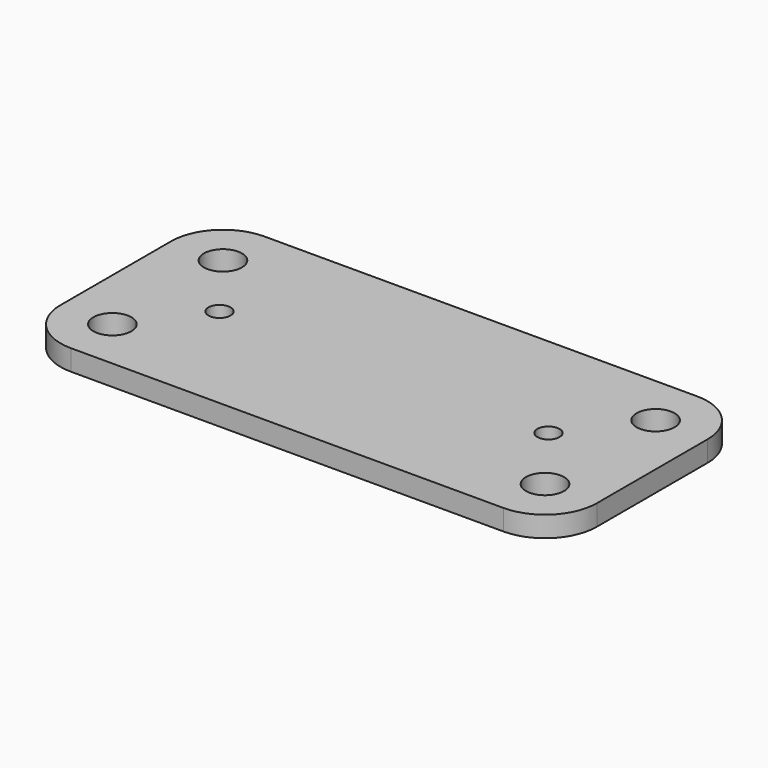
from build123d import *

# Parameters (mm, degrees)
F1_DEPTH = 3
F2_D     = 5.5
F3_D     = 3.2


with BuildPart() as f1:
    # F0 (on Top) → F1 (new body)
    with BuildSketch(Plane.XY):
        with BuildLine():
            Line((41.6422729686, 16.8069582433), (-20.9577269852, 16.8069582433))
            ThreePointArc((-20.9577269852, 16.8069582433), (-15.6544261263, 14.6102591021), (-13.4577269852, 9.3069582433))
            ThreePointArc((-13.4577269852, 9.3069582433), (-20.9577269852, 1.8069582433), (-28.4577269852, 9.3069582433))
            Line((-28.4577269852, 9.3069582433), (-28.4577269852, -10.6930417567))
            ThreePointArc((-28.4577269852, -10.6930417567), (-20.9577269852, -3.1930417567), (-13.4577269852, -10.6930417567))
            ThreePointArc((-13.4577269852, -10.6930417567), (-15.6544261263, -15.9963426156), (-20.9577269852, -18.1930417567))
            Line((-20.9577269852, -18.1930417567), (41.6422730148, -18.1930417567))
            ThreePointArc((41.6422730148, -18.1930417567), (36.3389721559, -5.3897408979), (49.1422730148, -10.6930417567))
            Line((49.1422730148, -10.6930417567), (49.1422730148, 9.3069582433))
            ThreePointArc((49.1422730148, 9.3069582433), (36.3389721722, 4.003657368), (41.6422729686, 16.8069582433))
        make_face()
        with BuildLine():
            ThreePointArc((49.1422730148, 9.3069582433), (46.9455738573, 14.6102591185), (41.6422729686, 16.8069582433))
            ThreePointArc((41.6422729686, 16.8069582433), (36.3389721722, 4.003657368), (49.1422730148, 9.3069582433))
        make_face()
        with BuildLine():
            ThreePointArc((-13.4577269852, 9.3069582433), (-15.6544261263, 14.6102591021), (-20.9577269852, 16.8069582433))
            ThreePointArc((-20.9577269852, 16.8069582433), (-26.2610278441, 14.6102591022), (-28.4577269852, 9.3069582433))
            ThreePointArc((-28.4577269852, 9.3069582433), (-20.9577269852, 1.8069582433), (-13.4577269852, 9.3069582433))
        make_face()
        with BuildLine():
            ThreePointArc((-13.4577269852, -10.6930417567), (-20.9577269852, -3.1930417567), (-28.4577269852, -10.6930417567))
            ThreePointArc((-28.4577269852, -10.6930417567), (-26.2610278441, -15.9963426156), (-20.9577269852, -18.1930417567))
            ThreePointArc((-20.9577269852, -18.1930417567), (-15.6544261263, -15.9963426156), (-13.4577269852, -10.6930417567))
        make_face()
        with BuildLine():
            ThreePointArc((41.6422730148, -18.1930417567), (46.9455738737, -15.9963426156), (49.1422730148, -10.6930417567))
            ThreePointArc((49.1422730148, -10.6930417567), (36.3389721559, -5.3897408979), (41.6422730148, -18.1930417567))
        make_face()
    extrude(amount=F1_DEPTH)

    # F2 (through all)
    with Locations(Plane(origin=(0, 0, 0), x_dir=(1, 0, 0), z_dir=(0, 0, -1))):
        with Locations((-20.9577269852, -9.3069582433), (-20.9577269852, 10.6930417567), (41.6422730148, 10.6930417567), (41.6422730148, -9.3069582433)):
            Hole(F2_D / 2)

    # F3 (through all)
    with Locations(Plane(origin=(0, 0, 0), x_dir=(1, 0, 0), z_dir=(0, 0, -1))):
        with Locations((-13.4577269852, 0.6930417567), (34.1422730148, 0.6930417567)):
            Hole(F3_D / 2)


solid = f1.part
